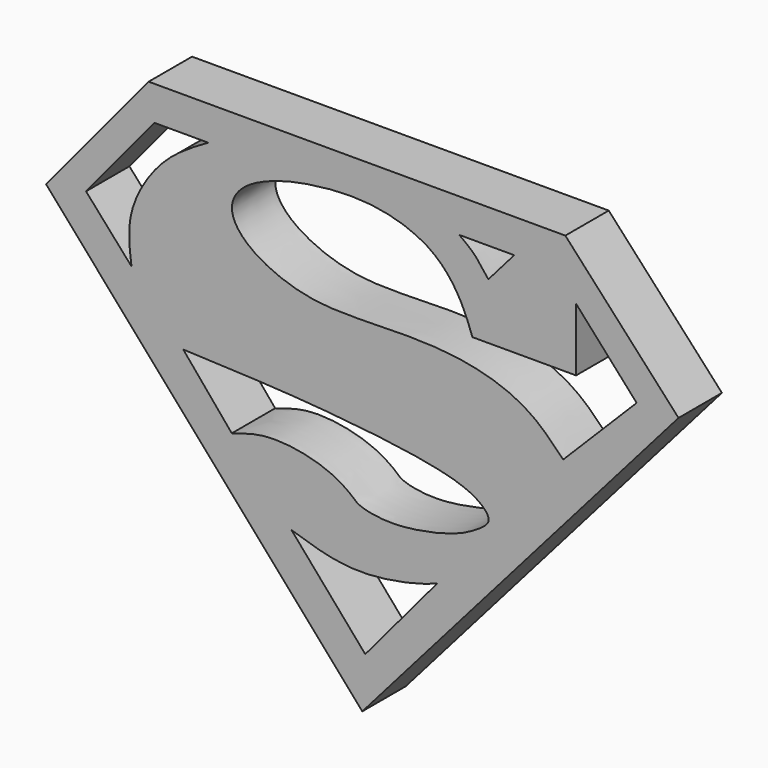
from build123d import *

# Parameters (mm, degrees)
F1_DEPTH = 12.7


with BuildPart() as f1:
    # F0 (on Front) → F1 (new body)
    with BuildSketch(Plane.XZ):
        Polygon((49.5156273246, 71.7573985457), (-48.0461902916, 71.7573985457), (-72.0593258739, 42.7963510156), (1.9778207592, -41.7662262917), (76.0149673923, 42.7963510156), align=None)
        with BuildLine():
            Line((-28.5787265748, 5.6145861745), (-39.9486720562, 19.1986747086))
            add(Edge.make_bspline(
                [(-28.5787265748, 5.6145861745), (-25.9027167835, 6.5096223689), (-20.0050000403, 8.4822122924), (-7.2532043465, 6.4001713349), (-0.7629676529, 2.3720393696), (1.1344269862, 0.1278681073), (8.1380871904, -1.0435877482), (15.9440418285, -0.1914846135), (24.3612443489, 1.8039001109), (29.5023608802, 4.7756940545), (32.620448516, 7.3737666802), (28.1515406227, 11.944729245), (16.8268110552, 14.797241457), (0.4058812109, 16.8386577426), (-17.8950922067, 18.3332214721), (-32.3757575815, 18.9014892455), (-39.9486720562, 19.1986747086)],
                knots=[0, 0, 0, 0, 0.0707714858, 0.1559748318, 0.2197688138, 0.2587000152, 0.319249702, 0.3875371478, 0.4573633825, 0.5157223187, 0.5563638713, 0.607830594, 0.6890978499, 0.7861389504, 0.8881576643, 1, 1, 1, 1], degree=3))
        make_face(mode=Mode.SUBTRACT)
        with BuildLine():
            Line((2.6709551457, -29.7538805753), (-14.5933786407, -9.7814165056))
            add(Edge.make_bspline(
                [(-14.5933786407, -9.7814165056), (-9.8921698564, -11.310008082), (-0.5844598135, -14.3363972131), (14.0853614865, -11.7081309), (18.0106184855, -10.2533015789), (19.5121429861, -9.6967872232)],
                knots=[0, 0, 0, 0, 0.3865655218, 0.7653435434, 1, 1, 1, 1], degree=3))
            Line((19.5121429861, -9.6967872232), (2.6709551457, -29.7538805753))
        make_face(mode=Mode.SUBTRACT)
        with BuildLine():
            Line((-62.7030064071, 44.3873720147), (-46.6742515564, 63.718855381))
            Line((-46.6742515564, 63.718855381), (-34.0923890471, 63.718855381))
            add(Edge.make_bspline(
                [(-52.0588643849, 32.3708206415), (-52.530809242, 35.9995633598), (-53.5474034713, 43.8160674515), (-45.230553125, 57.3038040417), (-37.7130198943, 61.6335446778), (-34.0923890471, 63.718855381)],
                knots=[0, 0, 0, 0, 0.3099536151, 0.6676565104, 1, 1, 1, 1], degree=3))
            Line((-52.0588643849, 32.3708206415), (-62.7030064071, 44.3873720147))
        make_face(mode=Mode.SUBTRACT)
        with BuildLine():
            Line((27.7525614947, 43.7529198825), (52.030056715, 43.7529198825))
            Line((52.030056715, 43.7529198825), (52.030056715, 58.5305243731))
            Line((52.030056715, 58.5305243731), (66.204495728, 42.6973775029))
            Line((66.204495728, 42.6973775029), (49.0142181516, 25.4317075014))
            add(Edge.make_bspline(
                [(49.0142181516, 25.4317075014), (46.2562695951, 28.3219138407), (40.2297552564, 34.6374304609), (23.1856682589, 39.4900601562), (3.8483177763, 38.8807665965), (-11.4502127816, 38.6534954816), (-24.9200745326, 44.5363446924), (-29.5854541024, 51.4371004385), (-26.8456522799, 57.3828304069), (-18.5072059551, 61.322156614), (-8.5276305428, 63.3445399233), (4.657539176, 64.134044125), (18.5693059236, 59.7719092526), (25.2162026329, 50.8152843887), (26.9607139489, 45.9577798042), (27.7525614947, 43.7529198825)],
                knots=[0, 0, 0, 0, 0.0789647883, 0.1725494219, 0.2722929364, 0.3613109635, 0.4461742153, 0.5065538907, 0.5588894397, 0.6258678665, 0.698356197, 0.7804573029, 0.8654387273, 0.9389215693, 1, 1, 1, 1], degree=3))
        make_face(mode=Mode.SUBTRACT)
        with BuildLine():
            add(Edge.make_bspline(
                [(31.4916223288, 56.879516691), (30.3980591496, 58.3711949254), (28.3134502211, 61.2147121773), (25.8352997305, 62.9852215488), (24.6571600437, 63.8269409537)],
                knots=[0, 0, 0, 0, 0.5245891276, 1, 1, 1, 1], degree=3))
            Line((24.6571600437, 63.8269409537), (37.5353172421, 63.8269409537))
            Line((37.5353172421, 63.8269409537), (31.4916223288, 56.879516691))
        make_face(mode=Mode.SUBTRACT)
    extrude(amount=F1_DEPTH)


solid = f1.part
